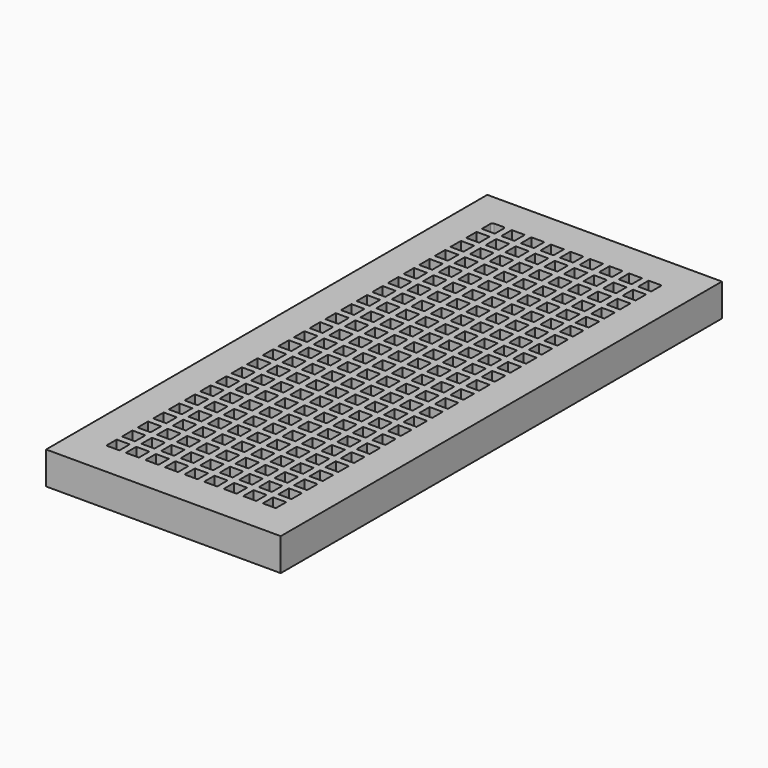
from build123d import *

# Parameters (mm, degrees)
F0_W     = 180
F0_H     = 423
F0_W_2   = 10
F0_H_2   = 10
F1_DEPTH = 25
F2_DEPTH = 25


with BuildPart() as f1:
    # F0 (on Top) → F1 (new body)
    with BuildSketch(Plane.XY):
        with Locations((-90, 211.5)):
            Rectangle(F0_W, F0_H)
        with Locations((-150, 31.5)):
            Rectangle(F0_W_2, F0_H_2, mode=Mode.SUBTRACT)
        with Locations((-150, 46.5)):
            Rectangle(F0_W_2, F0_H_2, mode=Mode.SUBTRACT)
        with Locations((-150, 61.5)):
            Rectangle(F0_W_2, F0_H_2, mode=Mode.SUBTRACT)
        with Locations((-150, 76.5)):
            Rectangle(F0_W_2, F0_H_2, mode=Mode.SUBTRACT)
        with Locations((-150, 91.5)):
            Rectangle(F0_W_2, F0_H_2, mode=Mode.SUBTRACT)
        with Locations((-135, 31.5)):
            Rectangle(F0_W_2, F0_H_2, mode=Mode.SUBTRACT)
        with Locations((-135, 46.5)):
            Rectangle(F0_W_2, F0_H_2, mode=Mode.SUBTRACT)
        with Locations((-120, 31.5)):
            Rectangle(F0_W_2, F0_H_2, mode=Mode.SUBTRACT)
        with Locations((-120, 46.5)):
            Rectangle(F0_W_2, F0_H_2, mode=Mode.SUBTRACT)
        with Locations((-105, 31.5)):
            Rectangle(F0_W_2, F0_H_2, mode=Mode.SUBTRACT)
        with Locations((-105, 46.5)):
            Rectangle(F0_W_2, F0_H_2, mode=Mode.SUBTRACT)
        with Locations((-135, 61.5)):
            Rectangle(F0_W_2, F0_H_2, mode=Mode.SUBTRACT)
        with Locations((-135, 76.5)):
            Rectangle(F0_W_2, F0_H_2, mode=Mode.SUBTRACT)
        with Locations((-120, 61.5)):
            Rectangle(F0_W_2, F0_H_2, mode=Mode.SUBTRACT)
        with Locations((-120, 76.5)):
            Rectangle(F0_W_2, F0_H_2, mode=Mode.SUBTRACT)
        with Locations((-135, 91.5)):
            Rectangle(F0_W_2, F0_H_2, mode=Mode.SUBTRACT)
        with Locations((-120, 91.5)):
            Rectangle(F0_W_2, F0_H_2, mode=Mode.SUBTRACT)
        with Locations((-105, 61.5)):
            Rectangle(F0_W_2, F0_H_2, mode=Mode.SUBTRACT)
        with Locations((-105, 76.5)):
            Rectangle(F0_W_2, F0_H_2, mode=Mode.SUBTRACT)
        with Locations((-105, 91.5)):
            Rectangle(F0_W_2, F0_H_2, mode=Mode.SUBTRACT)
        with Locations((-150, 106.5)):
            Rectangle(F0_W_2, F0_H_2, mode=Mode.SUBTRACT)
        with Locations((-150, 121.5)):
            Rectangle(F0_W_2, F0_H_2, mode=Mode.SUBTRACT)
        with Locations((-150, 136.5)):
            Rectangle(F0_W_2, F0_H_2, mode=Mode.SUBTRACT)
        with Locations((-150, 151.5)):
            Rectangle(F0_W_2, F0_H_2, mode=Mode.SUBTRACT)
        with Locations((-150, 166.5)):
            Rectangle(F0_W_2, F0_H_2, mode=Mode.SUBTRACT)
        with Locations((-150, 181.5)):
            Rectangle(F0_W_2, F0_H_2, mode=Mode.SUBTRACT)
        with Locations((-150, 196.5)):
            Rectangle(F0_W_2, F0_H_2, mode=Mode.SUBTRACT)
        with Locations((-135, 106.5)):
            Rectangle(F0_W_2, F0_H_2, mode=Mode.SUBTRACT)
        with Locations((-135, 121.5)):
            Rectangle(F0_W_2, F0_H_2, mode=Mode.SUBTRACT)
        with Locations((-120, 106.5)):
            Rectangle(F0_W_2, F0_H_2, mode=Mode.SUBTRACT)
        with Locations((-120, 121.5)):
            Rectangle(F0_W_2, F0_H_2, mode=Mode.SUBTRACT)
        with Locations((-135, 136.5)):
            Rectangle(F0_W_2, F0_H_2, mode=Mode.SUBTRACT)
        with Locations((-135, 151.5)):
            Rectangle(F0_W_2, F0_H_2, mode=Mode.SUBTRACT)
        with Locations((-120, 136.5)):
            Rectangle(F0_W_2, F0_H_2, mode=Mode.SUBTRACT)
        with Locations((-120, 151.5)):
            Rectangle(F0_W_2, F0_H_2, mode=Mode.SUBTRACT)
        with Locations((-105, 106.5)):
            Rectangle(F0_W_2, F0_H_2, mode=Mode.SUBTRACT)
        with Locations((-105, 121.5)):
            Rectangle(F0_W_2, F0_H_2, mode=Mode.SUBTRACT)
        with Locations((-105, 136.5)):
            Rectangle(F0_W_2, F0_H_2, mode=Mode.SUBTRACT)
        with Locations((-105, 151.5)):
            Rectangle(F0_W_2, F0_H_2, mode=Mode.SUBTRACT)
        with Locations((-135, 166.5)):
            Rectangle(F0_W_2, F0_H_2, mode=Mode.SUBTRACT)
        with Locations((-135, 181.5)):
            Rectangle(F0_W_2, F0_H_2, mode=Mode.SUBTRACT)
        with Locations((-120, 166.5)):
            Rectangle(F0_W_2, F0_H_2, mode=Mode.SUBTRACT)
        with Locations((-120, 181.5)):
            Rectangle(F0_W_2, F0_H_2, mode=Mode.SUBTRACT)
        with Locations((-135, 196.5)):
            Rectangle(F0_W_2, F0_H_2, mode=Mode.SUBTRACT)
        with Locations((-120, 196.5)):
            Rectangle(F0_W_2, F0_H_2, mode=Mode.SUBTRACT)
        with Locations((-105, 166.5)):
            Rectangle(F0_W_2, F0_H_2, mode=Mode.SUBTRACT)
        with Locations((-105, 181.5)):
            Rectangle(F0_W_2, F0_H_2, mode=Mode.SUBTRACT)
        with Locations((-105, 196.5)):
            Rectangle(F0_W_2, F0_H_2, mode=Mode.SUBTRACT)
        with Locations((-90, 31.5)):
            Rectangle(F0_W_2, F0_H_2, mode=Mode.SUBTRACT)
        with Locations((-90, 46.5)):
            Rectangle(F0_W_2, F0_H_2, mode=Mode.SUBTRACT)
        with Locations((-75, 31.5)):
            Rectangle(F0_W_2, F0_H_2, mode=Mode.SUBTRACT)
        with Locations((-75, 46.5)):
            Rectangle(F0_W_2, F0_H_2, mode=Mode.SUBTRACT)
        with Locations((-60, 31.5)):
            Rectangle(F0_W_2, F0_H_2, mode=Mode.SUBTRACT)
        with Locations((-60, 46.5)):
            Rectangle(F0_W_2, F0_H_2, mode=Mode.SUBTRACT)
        with Locations((-90, 61.5)):
            Rectangle(F0_W_2, F0_H_2, mode=Mode.SUBTRACT)
        with Locations((-90, 76.5)):
            Rectangle(F0_W_2, F0_H_2, mode=Mode.SUBTRACT)
        with Locations((-75, 61.5)):
            Rectangle(F0_W_2, F0_H_2, mode=Mode.SUBTRACT)
        with Locations((-75, 76.5)):
            Rectangle(F0_W_2, F0_H_2, mode=Mode.SUBTRACT)
        with Locations((-90, 91.5)):
            Rectangle(F0_W_2, F0_H_2, mode=Mode.SUBTRACT)
        with Locations((-75, 91.5)):
            Rectangle(F0_W_2, F0_H_2, mode=Mode.SUBTRACT)
        with Locations((-60, 61.5)):
            Rectangle(F0_W_2, F0_H_2, mode=Mode.SUBTRACT)
        with Locations((-60, 76.5)):
            Rectangle(F0_W_2, F0_H_2, mode=Mode.SUBTRACT)
        with Locations((-60, 91.5)):
            Rectangle(F0_W_2, F0_H_2, mode=Mode.SUBTRACT)
        with Locations((-45, 31.5)):
            Rectangle(F0_W_2, F0_H_2, mode=Mode.SUBTRACT)
        with Locations((-45, 46.5)):
            Rectangle(F0_W_2, F0_H_2, mode=Mode.SUBTRACT)
        with Locations((-30, 31.5)):
            Rectangle(F0_W_2, F0_H_2, mode=Mode.SUBTRACT)
        with Locations((-30, 46.5)):
            Rectangle(F0_W_2, F0_H_2, mode=Mode.SUBTRACT)
        with Locations((-45, 61.5)):
            Rectangle(F0_W_2, F0_H_2, mode=Mode.SUBTRACT)
        with Locations((-45, 76.5)):
            Rectangle(F0_W_2, F0_H_2, mode=Mode.SUBTRACT)
        with Locations((-30, 61.5)):
            Rectangle(F0_W_2, F0_H_2, mode=Mode.SUBTRACT)
        with Locations((-30, 76.5)):
            Rectangle(F0_W_2, F0_H_2, mode=Mode.SUBTRACT)
        with Locations((-45, 91.5)):
            Rectangle(F0_W_2, F0_H_2, mode=Mode.SUBTRACT)
        with Locations((-30, 91.5)):
            Rectangle(F0_W_2, F0_H_2, mode=Mode.SUBTRACT)
        with Locations((-90, 106.5)):
            Rectangle(F0_W_2, F0_H_2, mode=Mode.SUBTRACT)
        with Locations((-90, 121.5)):
            Rectangle(F0_W_2, F0_H_2, mode=Mode.SUBTRACT)
        with Locations((-75, 106.5)):
            Rectangle(F0_W_2, F0_H_2, mode=Mode.SUBTRACT)
        with Locations((-75, 121.5)):
            Rectangle(F0_W_2, F0_H_2, mode=Mode.SUBTRACT)
        with Locations((-90, 136.5)):
            Rectangle(F0_W_2, F0_H_2, mode=Mode.SUBTRACT)
        with Locations((-90, 151.5)):
            Rectangle(F0_W_2, F0_H_2, mode=Mode.SUBTRACT)
        with Locations((-75, 136.5)):
            Rectangle(F0_W_2, F0_H_2, mode=Mode.SUBTRACT)
        with Locations((-75, 151.5)):
            Rectangle(F0_W_2, F0_H_2, mode=Mode.SUBTRACT)
        with Locations((-60, 106.5)):
            Rectangle(F0_W_2, F0_H_2, mode=Mode.SUBTRACT)
        with Locations((-60, 121.5)):
            Rectangle(F0_W_2, F0_H_2, mode=Mode.SUBTRACT)
        with Locations((-60, 136.5)):
            Rectangle(F0_W_2, F0_H_2, mode=Mode.SUBTRACT)
        with Locations((-60, 151.5)):
            Rectangle(F0_W_2, F0_H_2, mode=Mode.SUBTRACT)
        with Locations((-90, 166.5)):
            Rectangle(F0_W_2, F0_H_2, mode=Mode.SUBTRACT)
        with Locations((-90, 181.5)):
            Rectangle(F0_W_2, F0_H_2, mode=Mode.SUBTRACT)
        with Locations((-75, 166.5)):
            Rectangle(F0_W_2, F0_H_2, mode=Mode.SUBTRACT)
        with Locations((-75, 181.5)):
            Rectangle(F0_W_2, F0_H_2, mode=Mode.SUBTRACT)
        with Locations((-90, 196.5)):
            Rectangle(F0_W_2, F0_H_2, mode=Mode.SUBTRACT)
        with Locations((-75, 196.5)):
            Rectangle(F0_W_2, F0_H_2, mode=Mode.SUBTRACT)
        with Locations((-60, 166.5)):
            Rectangle(F0_W_2, F0_H_2, mode=Mode.SUBTRACT)
        with Locations((-60, 181.5)):
            Rectangle(F0_W_2, F0_H_2, mode=Mode.SUBTRACT)
        with Locations((-60, 196.5)):
            Rectangle(F0_W_2, F0_H_2, mode=Mode.SUBTRACT)
        with Locations((-45, 106.5)):
            Rectangle(F0_W_2, F0_H_2, mode=Mode.SUBTRACT)
        with Locations((-45, 121.5)):
            Rectangle(F0_W_2, F0_H_2, mode=Mode.SUBTRACT)
        with Locations((-30, 106.5)):
            Rectangle(F0_W_2, F0_H_2, mode=Mode.SUBTRACT)
        with Locations((-30, 121.5)):
            Rectangle(F0_W_2, F0_H_2, mode=Mode.SUBTRACT)
        with Locations((-45, 136.5)):
            Rectangle(F0_W_2, F0_H_2, mode=Mode.SUBTRACT)
        with Locations((-45, 151.5)):
            Rectangle(F0_W_2, F0_H_2, mode=Mode.SUBTRACT)
        with Locations((-30, 136.5)):
            Rectangle(F0_W_2, F0_H_2, mode=Mode.SUBTRACT)
        with Locations((-30, 151.5)):
            Rectangle(F0_W_2, F0_H_2, mode=Mode.SUBTRACT)
        with Locations((-45, 166.5)):
            Rectangle(F0_W_2, F0_H_2, mode=Mode.SUBTRACT)
        with Locations((-45, 181.5)):
            Rectangle(F0_W_2, F0_H_2, mode=Mode.SUBTRACT)
        with Locations((-30, 166.5)):
            Rectangle(F0_W_2, F0_H_2, mode=Mode.SUBTRACT)
        with Locations((-30, 181.5)):
            Rectangle(F0_W_2, F0_H_2, mode=Mode.SUBTRACT)
        with Locations((-45, 196.5)):
            Rectangle(F0_W_2, F0_H_2, mode=Mode.SUBTRACT)
        with Locations((-30, 196.5)):
            Rectangle(F0_W_2, F0_H_2, mode=Mode.SUBTRACT)
        with Locations((-150, 211.5)):
            Rectangle(F0_W_2, F0_H_2, mode=Mode.SUBTRACT)
        with Locations((-150, 226.5)):
            Rectangle(F0_W_2, F0_H_2, mode=Mode.SUBTRACT)
        with Locations((-150, 241.5)):
            Rectangle(F0_W_2, F0_H_2, mode=Mode.SUBTRACT)
        with Locations((-150, 256.5)):
            Rectangle(F0_W_2, F0_H_2, mode=Mode.SUBTRACT)
        with Locations((-150, 271.5)):
            Rectangle(F0_W_2, F0_H_2, mode=Mode.SUBTRACT)
        with Locations((-150, 286.5)):
            Rectangle(F0_W_2, F0_H_2, mode=Mode.SUBTRACT)
        with Locations((-150, 301.5)):
            Rectangle(F0_W_2, F0_H_2, mode=Mode.SUBTRACT)
        with Locations((-150, 316.5)):
            Rectangle(F0_W_2, F0_H_2, mode=Mode.SUBTRACT)
        with Locations((-135, 211.5)):
            Rectangle(F0_W_2, F0_H_2, mode=Mode.SUBTRACT)
        with Locations((-135, 226.5)):
            Rectangle(F0_W_2, F0_H_2, mode=Mode.SUBTRACT)
        with Locations((-120, 211.5)):
            Rectangle(F0_W_2, F0_H_2, mode=Mode.SUBTRACT)
        with Locations((-120, 226.5)):
            Rectangle(F0_W_2, F0_H_2, mode=Mode.SUBTRACT)
        with Locations((-135, 241.5)):
            Rectangle(F0_W_2, F0_H_2, mode=Mode.SUBTRACT)
        with Locations((-135, 256.5)):
            Rectangle(F0_W_2, F0_H_2, mode=Mode.SUBTRACT)
        with Locations((-120, 241.5)):
            Rectangle(F0_W_2, F0_H_2, mode=Mode.SUBTRACT)
        with Locations((-120, 256.5)):
            Rectangle(F0_W_2, F0_H_2, mode=Mode.SUBTRACT)
        with Locations((-105, 211.5)):
            Rectangle(F0_W_2, F0_H_2, mode=Mode.SUBTRACT)
        with Locations((-105, 226.5)):
            Rectangle(F0_W_2, F0_H_2, mode=Mode.SUBTRACT)
        with Locations((-105, 241.5)):
            Rectangle(F0_W_2, F0_H_2, mode=Mode.SUBTRACT)
        with Locations((-105, 256.5)):
            Rectangle(F0_W_2, F0_H_2, mode=Mode.SUBTRACT)
        with Locations((-135, 271.5)):
            Rectangle(F0_W_2, F0_H_2, mode=Mode.SUBTRACT)
        with Locations((-135, 286.5)):
            Rectangle(F0_W_2, F0_H_2, mode=Mode.SUBTRACT)
        with Locations((-120, 271.5)):
            Rectangle(F0_W_2, F0_H_2, mode=Mode.SUBTRACT)
        with Locations((-120, 286.5)):
            Rectangle(F0_W_2, F0_H_2, mode=Mode.SUBTRACT)
        with Locations((-135, 301.5)):
            Rectangle(F0_W_2, F0_H_2, mode=Mode.SUBTRACT)
        with Locations((-135, 316.5)):
            Rectangle(F0_W_2, F0_H_2, mode=Mode.SUBTRACT)
        with Locations((-120, 301.5)):
            Rectangle(F0_W_2, F0_H_2, mode=Mode.SUBTRACT)
        with Locations((-120, 316.5)):
            Rectangle(F0_W_2, F0_H_2, mode=Mode.SUBTRACT)
        with Locations((-105, 271.5)):
            Rectangle(F0_W_2, F0_H_2, mode=Mode.SUBTRACT)
        with Locations((-105, 286.5)):
            Rectangle(F0_W_2, F0_H_2, mode=Mode.SUBTRACT)
        with Locations((-105, 301.5)):
            Rectangle(F0_W_2, F0_H_2, mode=Mode.SUBTRACT)
        with Locations((-105, 316.5)):
            Rectangle(F0_W_2, F0_H_2, mode=Mode.SUBTRACT)
        with Locations((-150, 331.5)):
            Rectangle(F0_W_2, F0_H_2, mode=Mode.SUBTRACT)
        with Locations((-150, 346.5)):
            Rectangle(F0_W_2, F0_H_2, mode=Mode.SUBTRACT)
        with Locations((-150, 361.5)):
            Rectangle(F0_W_2, F0_H_2, mode=Mode.SUBTRACT)
        with Locations((-150, 376.5)):
            Rectangle(F0_W_2, F0_H_2, mode=Mode.SUBTRACT)
        with BuildLine():
            ThreePointArc((-155, 395), (-154.56066, 396.06066), (-153.5, 396.5))
            Line((-153.5, 396.5), (-146.5, 396.5))
            ThreePointArc((-146.5, 396.5), (-145.43934, 396.06066), (-145, 395))
            Line((-145, 395), (-145, 386.5))
            Line((-145, 386.5), (-155, 386.5))
            Line((-155, 386.5), (-155, 395))
        make_face(mode=Mode.SUBTRACT)
        with Locations((-135, 331.5)):
            Rectangle(F0_W_2, F0_H_2, mode=Mode.SUBTRACT)
        with Locations((-120, 331.5)):
            Rectangle(F0_W_2, F0_H_2, mode=Mode.SUBTRACT)
        with Locations((-135, 346.5)):
            Rectangle(F0_W_2, F0_H_2, mode=Mode.SUBTRACT)
        with Locations((-135, 361.5)):
            Rectangle(F0_W_2, F0_H_2, mode=Mode.SUBTRACT)
        with Locations((-120, 346.5)):
            Rectangle(F0_W_2, F0_H_2, mode=Mode.SUBTRACT)
        with Locations((-120, 361.5)):
            Rectangle(F0_W_2, F0_H_2, mode=Mode.SUBTRACT)
        with Locations((-105, 331.5)):
            Rectangle(F0_W_2, F0_H_2, mode=Mode.SUBTRACT)
        with Locations((-105, 346.5)):
            Rectangle(F0_W_2, F0_H_2, mode=Mode.SUBTRACT)
        with Locations((-105, 361.5)):
            Rectangle(F0_W_2, F0_H_2, mode=Mode.SUBTRACT)
        with Locations((-135, 376.5)):
            Rectangle(F0_W_2, F0_H_2, mode=Mode.SUBTRACT)
        with Locations((-135, 391.5)):
            Rectangle(F0_W_2, F0_H_2, mode=Mode.SUBTRACT)
        with Locations((-120, 376.5)):
            Rectangle(F0_W_2, F0_H_2, mode=Mode.SUBTRACT)
        with Locations((-120, 391.5)):
            Rectangle(F0_W_2, F0_H_2, mode=Mode.SUBTRACT)
        with Locations((-105, 376.5)):
            Rectangle(F0_W_2, F0_H_2, mode=Mode.SUBTRACT)
        with Locations((-105, 391.5)):
            Rectangle(F0_W_2, F0_H_2, mode=Mode.SUBTRACT)
        with Locations((-90, 211.5)):
            Rectangle(F0_W_2, F0_H_2, mode=Mode.SUBTRACT)
        with Locations((-90, 226.5)):
            Rectangle(F0_W_2, F0_H_2, mode=Mode.SUBTRACT)
        with Locations((-75, 211.5)):
            Rectangle(F0_W_2, F0_H_2, mode=Mode.SUBTRACT)
        with Locations((-75, 226.5)):
            Rectangle(F0_W_2, F0_H_2, mode=Mode.SUBTRACT)
        with Locations((-90, 241.5)):
            Rectangle(F0_W_2, F0_H_2, mode=Mode.SUBTRACT)
        with Locations((-90, 256.5)):
            Rectangle(F0_W_2, F0_H_2, mode=Mode.SUBTRACT)
        with Locations((-75, 241.5)):
            Rectangle(F0_W_2, F0_H_2, mode=Mode.SUBTRACT)
        with Locations((-75, 256.5)):
            Rectangle(F0_W_2, F0_H_2, mode=Mode.SUBTRACT)
        with Locations((-60, 211.5)):
            Rectangle(F0_W_2, F0_H_2, mode=Mode.SUBTRACT)
        with Locations((-60, 226.5)):
            Rectangle(F0_W_2, F0_H_2, mode=Mode.SUBTRACT)
        with Locations((-60, 241.5)):
            Rectangle(F0_W_2, F0_H_2, mode=Mode.SUBTRACT)
        with Locations((-60, 256.5)):
            Rectangle(F0_W_2, F0_H_2, mode=Mode.SUBTRACT)
        with Locations((-90, 271.5)):
            Rectangle(F0_W_2, F0_H_2, mode=Mode.SUBTRACT)
        with Locations((-90, 286.5)):
            Rectangle(F0_W_2, F0_H_2, mode=Mode.SUBTRACT)
        with Locations((-75, 271.5)):
            Rectangle(F0_W_2, F0_H_2, mode=Mode.SUBTRACT)
        with Locations((-75, 286.5)):
            Rectangle(F0_W_2, F0_H_2, mode=Mode.SUBTRACT)
        with Locations((-90, 301.5)):
            Rectangle(F0_W_2, F0_H_2, mode=Mode.SUBTRACT)
        with Locations((-90, 316.5)):
            Rectangle(F0_W_2, F0_H_2, mode=Mode.SUBTRACT)
        with Locations((-75, 301.5)):
            Rectangle(F0_W_2, F0_H_2, mode=Mode.SUBTRACT)
        with Locations((-75, 316.5)):
            Rectangle(F0_W_2, F0_H_2, mode=Mode.SUBTRACT)
        with Locations((-60, 271.5)):
            Rectangle(F0_W_2, F0_H_2, mode=Mode.SUBTRACT)
        with Locations((-60, 286.5)):
            Rectangle(F0_W_2, F0_H_2, mode=Mode.SUBTRACT)
        with Locations((-60, 301.5)):
            Rectangle(F0_W_2, F0_H_2, mode=Mode.SUBTRACT)
        with Locations((-60, 316.5)):
            Rectangle(F0_W_2, F0_H_2, mode=Mode.SUBTRACT)
        with Locations((-45, 211.5)):
            Rectangle(F0_W_2, F0_H_2, mode=Mode.SUBTRACT)
        with Locations((-45, 226.5)):
            Rectangle(F0_W_2, F0_H_2, mode=Mode.SUBTRACT)
        with Locations((-30, 211.5)):
            Rectangle(F0_W_2, F0_H_2, mode=Mode.SUBTRACT)
        with Locations((-30, 226.5)):
            Rectangle(F0_W_2, F0_H_2, mode=Mode.SUBTRACT)
        with Locations((-45, 241.5)):
            Rectangle(F0_W_2, F0_H_2, mode=Mode.SUBTRACT)
        with Locations((-45, 256.5)):
            Rectangle(F0_W_2, F0_H_2, mode=Mode.SUBTRACT)
        with Locations((-30, 241.5)):
            Rectangle(F0_W_2, F0_H_2, mode=Mode.SUBTRACT)
        with Locations((-30, 256.5)):
            Rectangle(F0_W_2, F0_H_2, mode=Mode.SUBTRACT)
        with Locations((-45, 271.5)):
            Rectangle(F0_W_2, F0_H_2, mode=Mode.SUBTRACT)
        with Locations((-45, 286.5)):
            Rectangle(F0_W_2, F0_H_2, mode=Mode.SUBTRACT)
        with Locations((-30, 271.5)):
            Rectangle(F0_W_2, F0_H_2, mode=Mode.SUBTRACT)
        with Locations((-30, 286.5)):
            Rectangle(F0_W_2, F0_H_2, mode=Mode.SUBTRACT)
        with Locations((-45, 301.5)):
            Rectangle(F0_W_2, F0_H_2, mode=Mode.SUBTRACT)
        with Locations((-45, 316.5)):
            Rectangle(F0_W_2, F0_H_2, mode=Mode.SUBTRACT)
        with Locations((-30, 301.5)):
            Rectangle(F0_W_2, F0_H_2, mode=Mode.SUBTRACT)
        with Locations((-30, 316.5)):
            Rectangle(F0_W_2, F0_H_2, mode=Mode.SUBTRACT)
        with Locations((-90, 331.5)):
            Rectangle(F0_W_2, F0_H_2, mode=Mode.SUBTRACT)
        with Locations((-75, 331.5)):
            Rectangle(F0_W_2, F0_H_2, mode=Mode.SUBTRACT)
        with Locations((-90, 346.5)):
            Rectangle(F0_W_2, F0_H_2, mode=Mode.SUBTRACT)
        with Locations((-90, 361.5)):
            Rectangle(F0_W_2, F0_H_2, mode=Mode.SUBTRACT)
        with Locations((-75, 346.5)):
            Rectangle(F0_W_2, F0_H_2, mode=Mode.SUBTRACT)
        with Locations((-75, 361.5)):
            Rectangle(F0_W_2, F0_H_2, mode=Mode.SUBTRACT)
        with Locations((-60, 331.5)):
            Rectangle(F0_W_2, F0_H_2, mode=Mode.SUBTRACT)
        with Locations((-60, 346.5)):
            Rectangle(F0_W_2, F0_H_2, mode=Mode.SUBTRACT)
        with Locations((-60, 361.5)):
            Rectangle(F0_W_2, F0_H_2, mode=Mode.SUBTRACT)
        with Locations((-90, 376.5)):
            Rectangle(F0_W_2, F0_H_2, mode=Mode.SUBTRACT)
        with Locations((-90, 391.5)):
            Rectangle(F0_W_2, F0_H_2, mode=Mode.SUBTRACT)
        with Locations((-75, 376.5)):
            Rectangle(F0_W_2, F0_H_2, mode=Mode.SUBTRACT)
        with Locations((-75, 391.5)):
            Rectangle(F0_W_2, F0_H_2, mode=Mode.SUBTRACT)
        with Locations((-60, 376.5)):
            Rectangle(F0_W_2, F0_H_2, mode=Mode.SUBTRACT)
        with Locations((-60, 391.5)):
            Rectangle(F0_W_2, F0_H_2, mode=Mode.SUBTRACT)
        with Locations((-45, 331.5)):
            Rectangle(F0_W_2, F0_H_2, mode=Mode.SUBTRACT)
        with Locations((-30, 331.5)):
            Rectangle(F0_W_2, F0_H_2, mode=Mode.SUBTRACT)
        with Locations((-45, 346.5)):
            Rectangle(F0_W_2, F0_H_2, mode=Mode.SUBTRACT)
        with Locations((-45, 361.5)):
            Rectangle(F0_W_2, F0_H_2, mode=Mode.SUBTRACT)
        with Locations((-30, 346.5)):
            Rectangle(F0_W_2, F0_H_2, mode=Mode.SUBTRACT)
        with Locations((-30, 361.5)):
            Rectangle(F0_W_2, F0_H_2, mode=Mode.SUBTRACT)
        with Locations((-45, 376.5)):
            Rectangle(F0_W_2, F0_H_2, mode=Mode.SUBTRACT)
        with Locations((-45, 391.5)):
            Rectangle(F0_W_2, F0_H_2, mode=Mode.SUBTRACT)
        with Locations((-30, 376.5)):
            Rectangle(F0_W_2, F0_H_2, mode=Mode.SUBTRACT)
        with Locations((-30, 391.5)):
            Rectangle(F0_W_2, F0_H_2, mode=Mode.SUBTRACT)
    extrude(amount=F1_DEPTH)

    # F0 (on Top) → F2 (join)
    with BuildSketch(Plane.XY):
        with Locations((-90, 211.5)):
            Rectangle(F0_W, F0_H)
        with Locations((-150, 31.5)):
            Rectangle(F0_W_2, F0_H_2, mode=Mode.SUBTRACT)
        with Locations((-150, 46.5)):
            Rectangle(F0_W_2, F0_H_2, mode=Mode.SUBTRACT)
        with Locations((-150, 61.5)):
            Rectangle(F0_W_2, F0_H_2, mode=Mode.SUBTRACT)
        with Locations((-150, 76.5)):
            Rectangle(F0_W_2, F0_H_2, mode=Mode.SUBTRACT)
        with Locations((-150, 91.5)):
            Rectangle(F0_W_2, F0_H_2, mode=Mode.SUBTRACT)
        with Locations((-135, 31.5)):
            Rectangle(F0_W_2, F0_H_2, mode=Mode.SUBTRACT)
        with Locations((-135, 46.5)):
            Rectangle(F0_W_2, F0_H_2, mode=Mode.SUBTRACT)
        with Locations((-120, 31.5)):
            Rectangle(F0_W_2, F0_H_2, mode=Mode.SUBTRACT)
        with Locations((-120, 46.5)):
            Rectangle(F0_W_2, F0_H_2, mode=Mode.SUBTRACT)
        with Locations((-105, 31.5)):
            Rectangle(F0_W_2, F0_H_2, mode=Mode.SUBTRACT)
        with Locations((-105, 46.5)):
            Rectangle(F0_W_2, F0_H_2, mode=Mode.SUBTRACT)
        with Locations((-135, 61.5)):
            Rectangle(F0_W_2, F0_H_2, mode=Mode.SUBTRACT)
        with Locations((-135, 76.5)):
            Rectangle(F0_W_2, F0_H_2, mode=Mode.SUBTRACT)
        with Locations((-120, 61.5)):
            Rectangle(F0_W_2, F0_H_2, mode=Mode.SUBTRACT)
        with Locations((-120, 76.5)):
            Rectangle(F0_W_2, F0_H_2, mode=Mode.SUBTRACT)
        with Locations((-135, 91.5)):
            Rectangle(F0_W_2, F0_H_2, mode=Mode.SUBTRACT)
        with Locations((-120, 91.5)):
            Rectangle(F0_W_2, F0_H_2, mode=Mode.SUBTRACT)
        with Locations((-105, 61.5)):
            Rectangle(F0_W_2, F0_H_2, mode=Mode.SUBTRACT)
        with Locations((-105, 76.5)):
            Rectangle(F0_W_2, F0_H_2, mode=Mode.SUBTRACT)
        with Locations((-105, 91.5)):
            Rectangle(F0_W_2, F0_H_2, mode=Mode.SUBTRACT)
        with Locations((-150, 106.5)):
            Rectangle(F0_W_2, F0_H_2, mode=Mode.SUBTRACT)
        with Locations((-150, 121.5)):
            Rectangle(F0_W_2, F0_H_2, mode=Mode.SUBTRACT)
        with Locations((-150, 136.5)):
            Rectangle(F0_W_2, F0_H_2, mode=Mode.SUBTRACT)
        with Locations((-150, 151.5)):
            Rectangle(F0_W_2, F0_H_2, mode=Mode.SUBTRACT)
        with Locations((-150, 166.5)):
            Rectangle(F0_W_2, F0_H_2, mode=Mode.SUBTRACT)
        with Locations((-150, 181.5)):
            Rectangle(F0_W_2, F0_H_2, mode=Mode.SUBTRACT)
        with Locations((-150, 196.5)):
            Rectangle(F0_W_2, F0_H_2, mode=Mode.SUBTRACT)
        with Locations((-135, 106.5)):
            Rectangle(F0_W_2, F0_H_2, mode=Mode.SUBTRACT)
        with Locations((-135, 121.5)):
            Rectangle(F0_W_2, F0_H_2, mode=Mode.SUBTRACT)
        with Locations((-120, 106.5)):
            Rectangle(F0_W_2, F0_H_2, mode=Mode.SUBTRACT)
        with Locations((-120, 121.5)):
            Rectangle(F0_W_2, F0_H_2, mode=Mode.SUBTRACT)
        with Locations((-135, 136.5)):
            Rectangle(F0_W_2, F0_H_2, mode=Mode.SUBTRACT)
        with Locations((-135, 151.5)):
            Rectangle(F0_W_2, F0_H_2, mode=Mode.SUBTRACT)
        with Locations((-120, 136.5)):
            Rectangle(F0_W_2, F0_H_2, mode=Mode.SUBTRACT)
        with Locations((-120, 151.5)):
            Rectangle(F0_W_2, F0_H_2, mode=Mode.SUBTRACT)
        with Locations((-105, 106.5)):
            Rectangle(F0_W_2, F0_H_2, mode=Mode.SUBTRACT)
        with Locations((-105, 121.5)):
            Rectangle(F0_W_2, F0_H_2, mode=Mode.SUBTRACT)
        with Locations((-105, 136.5)):
            Rectangle(F0_W_2, F0_H_2, mode=Mode.SUBTRACT)
        with Locations((-105, 151.5)):
            Rectangle(F0_W_2, F0_H_2, mode=Mode.SUBTRACT)
        with Locations((-135, 166.5)):
            Rectangle(F0_W_2, F0_H_2, mode=Mode.SUBTRACT)
        with Locations((-135, 181.5)):
            Rectangle(F0_W_2, F0_H_2, mode=Mode.SUBTRACT)
        with Locations((-120, 166.5)):
            Rectangle(F0_W_2, F0_H_2, mode=Mode.SUBTRACT)
        with Locations((-120, 181.5)):
            Rectangle(F0_W_2, F0_H_2, mode=Mode.SUBTRACT)
        with Locations((-135, 196.5)):
            Rectangle(F0_W_2, F0_H_2, mode=Mode.SUBTRACT)
        with Locations((-120, 196.5)):
            Rectangle(F0_W_2, F0_H_2, mode=Mode.SUBTRACT)
        with Locations((-105, 166.5)):
            Rectangle(F0_W_2, F0_H_2, mode=Mode.SUBTRACT)
        with Locations((-105, 181.5)):
            Rectangle(F0_W_2, F0_H_2, mode=Mode.SUBTRACT)
        with Locations((-105, 196.5)):
            Rectangle(F0_W_2, F0_H_2, mode=Mode.SUBTRACT)
        with Locations((-90, 31.5)):
            Rectangle(F0_W_2, F0_H_2, mode=Mode.SUBTRACT)
        with Locations((-90, 46.5)):
            Rectangle(F0_W_2, F0_H_2, mode=Mode.SUBTRACT)
        with Locations((-75, 31.5)):
            Rectangle(F0_W_2, F0_H_2, mode=Mode.SUBTRACT)
        with Locations((-75, 46.5)):
            Rectangle(F0_W_2, F0_H_2, mode=Mode.SUBTRACT)
        with Locations((-60, 31.5)):
            Rectangle(F0_W_2, F0_H_2, mode=Mode.SUBTRACT)
        with Locations((-60, 46.5)):
            Rectangle(F0_W_2, F0_H_2, mode=Mode.SUBTRACT)
        with Locations((-90, 61.5)):
            Rectangle(F0_W_2, F0_H_2, mode=Mode.SUBTRACT)
        with Locations((-90, 76.5)):
            Rectangle(F0_W_2, F0_H_2, mode=Mode.SUBTRACT)
        with Locations((-75, 61.5)):
            Rectangle(F0_W_2, F0_H_2, mode=Mode.SUBTRACT)
        with Locations((-75, 76.5)):
            Rectangle(F0_W_2, F0_H_2, mode=Mode.SUBTRACT)
        with Locations((-90, 91.5)):
            Rectangle(F0_W_2, F0_H_2, mode=Mode.SUBTRACT)
        with Locations((-75, 91.5)):
            Rectangle(F0_W_2, F0_H_2, mode=Mode.SUBTRACT)
        with Locations((-60, 61.5)):
            Rectangle(F0_W_2, F0_H_2, mode=Mode.SUBTRACT)
        with Locations((-60, 76.5)):
            Rectangle(F0_W_2, F0_H_2, mode=Mode.SUBTRACT)
        with Locations((-60, 91.5)):
            Rectangle(F0_W_2, F0_H_2, mode=Mode.SUBTRACT)
        with Locations((-45, 31.5)):
            Rectangle(F0_W_2, F0_H_2, mode=Mode.SUBTRACT)
        with Locations((-45, 46.5)):
            Rectangle(F0_W_2, F0_H_2, mode=Mode.SUBTRACT)
        with Locations((-30, 31.5)):
            Rectangle(F0_W_2, F0_H_2, mode=Mode.SUBTRACT)
        with Locations((-30, 46.5)):
            Rectangle(F0_W_2, F0_H_2, mode=Mode.SUBTRACT)
        with Locations((-45, 61.5)):
            Rectangle(F0_W_2, F0_H_2, mode=Mode.SUBTRACT)
        with Locations((-45, 76.5)):
            Rectangle(F0_W_2, F0_H_2, mode=Mode.SUBTRACT)
        with Locations((-30, 61.5)):
            Rectangle(F0_W_2, F0_H_2, mode=Mode.SUBTRACT)
        with Locations((-30, 76.5)):
            Rectangle(F0_W_2, F0_H_2, mode=Mode.SUBTRACT)
        with Locations((-45, 91.5)):
            Rectangle(F0_W_2, F0_H_2, mode=Mode.SUBTRACT)
        with Locations((-30, 91.5)):
            Rectangle(F0_W_2, F0_H_2, mode=Mode.SUBTRACT)
        with Locations((-90, 106.5)):
            Rectangle(F0_W_2, F0_H_2, mode=Mode.SUBTRACT)
        with Locations((-90, 121.5)):
            Rectangle(F0_W_2, F0_H_2, mode=Mode.SUBTRACT)
        with Locations((-75, 106.5)):
            Rectangle(F0_W_2, F0_H_2, mode=Mode.SUBTRACT)
        with Locations((-75, 121.5)):
            Rectangle(F0_W_2, F0_H_2, mode=Mode.SUBTRACT)
        with Locations((-90, 136.5)):
            Rectangle(F0_W_2, F0_H_2, mode=Mode.SUBTRACT)
        with Locations((-90, 151.5)):
            Rectangle(F0_W_2, F0_H_2, mode=Mode.SUBTRACT)
        with Locations((-75, 136.5)):
            Rectangle(F0_W_2, F0_H_2, mode=Mode.SUBTRACT)
        with Locations((-75, 151.5)):
            Rectangle(F0_W_2, F0_H_2, mode=Mode.SUBTRACT)
        with Locations((-60, 106.5)):
            Rectangle(F0_W_2, F0_H_2, mode=Mode.SUBTRACT)
        with Locations((-60, 121.5)):
            Rectangle(F0_W_2, F0_H_2, mode=Mode.SUBTRACT)
        with Locations((-60, 136.5)):
            Rectangle(F0_W_2, F0_H_2, mode=Mode.SUBTRACT)
        with Locations((-60, 151.5)):
            Rectangle(F0_W_2, F0_H_2, mode=Mode.SUBTRACT)
        with Locations((-90, 166.5)):
            Rectangle(F0_W_2, F0_H_2, mode=Mode.SUBTRACT)
        with Locations((-90, 181.5)):
            Rectangle(F0_W_2, F0_H_2, mode=Mode.SUBTRACT)
        with Locations((-75, 166.5)):
            Rectangle(F0_W_2, F0_H_2, mode=Mode.SUBTRACT)
        with Locations((-75, 181.5)):
            Rectangle(F0_W_2, F0_H_2, mode=Mode.SUBTRACT)
        with Locations((-90, 196.5)):
            Rectangle(F0_W_2, F0_H_2, mode=Mode.SUBTRACT)
        with Locations((-75, 196.5)):
            Rectangle(F0_W_2, F0_H_2, mode=Mode.SUBTRACT)
        with Locations((-60, 166.5)):
            Rectangle(F0_W_2, F0_H_2, mode=Mode.SUBTRACT)
        with Locations((-60, 181.5)):
            Rectangle(F0_W_2, F0_H_2, mode=Mode.SUBTRACT)
        with Locations((-60, 196.5)):
            Rectangle(F0_W_2, F0_H_2, mode=Mode.SUBTRACT)
        with Locations((-45, 106.5)):
            Rectangle(F0_W_2, F0_H_2, mode=Mode.SUBTRACT)
        with Locations((-45, 121.5)):
            Rectangle(F0_W_2, F0_H_2, mode=Mode.SUBTRACT)
        with Locations((-30, 106.5)):
            Rectangle(F0_W_2, F0_H_2, mode=Mode.SUBTRACT)
        with Locations((-30, 121.5)):
            Rectangle(F0_W_2, F0_H_2, mode=Mode.SUBTRACT)
        with Locations((-45, 136.5)):
            Rectangle(F0_W_2, F0_H_2, mode=Mode.SUBTRACT)
        with Locations((-45, 151.5)):
            Rectangle(F0_W_2, F0_H_2, mode=Mode.SUBTRACT)
        with Locations((-30, 136.5)):
            Rectangle(F0_W_2, F0_H_2, mode=Mode.SUBTRACT)
        with Locations((-30, 151.5)):
            Rectangle(F0_W_2, F0_H_2, mode=Mode.SUBTRACT)
        with Locations((-45, 166.5)):
            Rectangle(F0_W_2, F0_H_2, mode=Mode.SUBTRACT)
        with Locations((-45, 181.5)):
            Rectangle(F0_W_2, F0_H_2, mode=Mode.SUBTRACT)
        with Locations((-30, 166.5)):
            Rectangle(F0_W_2, F0_H_2, mode=Mode.SUBTRACT)
        with Locations((-30, 181.5)):
            Rectangle(F0_W_2, F0_H_2, mode=Mode.SUBTRACT)
        with Locations((-45, 196.5)):
            Rectangle(F0_W_2, F0_H_2, mode=Mode.SUBTRACT)
        with Locations((-30, 196.5)):
            Rectangle(F0_W_2, F0_H_2, mode=Mode.SUBTRACT)
        with Locations((-150, 211.5)):
            Rectangle(F0_W_2, F0_H_2, mode=Mode.SUBTRACT)
        with Locations((-150, 226.5)):
            Rectangle(F0_W_2, F0_H_2, mode=Mode.SUBTRACT)
        with Locations((-150, 241.5)):
            Rectangle(F0_W_2, F0_H_2, mode=Mode.SUBTRACT)
        with Locations((-150, 256.5)):
            Rectangle(F0_W_2, F0_H_2, mode=Mode.SUBTRACT)
        with Locations((-150, 271.5)):
            Rectangle(F0_W_2, F0_H_2, mode=Mode.SUBTRACT)
        with Locations((-150, 286.5)):
            Rectangle(F0_W_2, F0_H_2, mode=Mode.SUBTRACT)
        with Locations((-150, 301.5)):
            Rectangle(F0_W_2, F0_H_2, mode=Mode.SUBTRACT)
        with Locations((-150, 316.5)):
            Rectangle(F0_W_2, F0_H_2, mode=Mode.SUBTRACT)
        with Locations((-135, 211.5)):
            Rectangle(F0_W_2, F0_H_2, mode=Mode.SUBTRACT)
        with Locations((-135, 226.5)):
            Rectangle(F0_W_2, F0_H_2, mode=Mode.SUBTRACT)
        with Locations((-120, 211.5)):
            Rectangle(F0_W_2, F0_H_2, mode=Mode.SUBTRACT)
        with Locations((-120, 226.5)):
            Rectangle(F0_W_2, F0_H_2, mode=Mode.SUBTRACT)
        with Locations((-135, 241.5)):
            Rectangle(F0_W_2, F0_H_2, mode=Mode.SUBTRACT)
        with Locations((-135, 256.5)):
            Rectangle(F0_W_2, F0_H_2, mode=Mode.SUBTRACT)
        with Locations((-120, 241.5)):
            Rectangle(F0_W_2, F0_H_2, mode=Mode.SUBTRACT)
        with Locations((-120, 256.5)):
            Rectangle(F0_W_2, F0_H_2, mode=Mode.SUBTRACT)
        with Locations((-105, 211.5)):
            Rectangle(F0_W_2, F0_H_2, mode=Mode.SUBTRACT)
        with Locations((-105, 226.5)):
            Rectangle(F0_W_2, F0_H_2, mode=Mode.SUBTRACT)
        with Locations((-105, 241.5)):
            Rectangle(F0_W_2, F0_H_2, mode=Mode.SUBTRACT)
        with Locations((-105, 256.5)):
            Rectangle(F0_W_2, F0_H_2, mode=Mode.SUBTRACT)
        with Locations((-135, 271.5)):
            Rectangle(F0_W_2, F0_H_2, mode=Mode.SUBTRACT)
        with Locations((-135, 286.5)):
            Rectangle(F0_W_2, F0_H_2, mode=Mode.SUBTRACT)
        with Locations((-120, 271.5)):
            Rectangle(F0_W_2, F0_H_2, mode=Mode.SUBTRACT)
        with Locations((-120, 286.5)):
            Rectangle(F0_W_2, F0_H_2, mode=Mode.SUBTRACT)
        with Locations((-135, 301.5)):
            Rectangle(F0_W_2, F0_H_2, mode=Mode.SUBTRACT)
        with Locations((-135, 316.5)):
            Rectangle(F0_W_2, F0_H_2, mode=Mode.SUBTRACT)
        with Locations((-120, 301.5)):
            Rectangle(F0_W_2, F0_H_2, mode=Mode.SUBTRACT)
        with Locations((-120, 316.5)):
            Rectangle(F0_W_2, F0_H_2, mode=Mode.SUBTRACT)
        with Locations((-105, 271.5)):
            Rectangle(F0_W_2, F0_H_2, mode=Mode.SUBTRACT)
        with Locations((-105, 286.5)):
            Rectangle(F0_W_2, F0_H_2, mode=Mode.SUBTRACT)
        with Locations((-105, 301.5)):
            Rectangle(F0_W_2, F0_H_2, mode=Mode.SUBTRACT)
        with Locations((-105, 316.5)):
            Rectangle(F0_W_2, F0_H_2, mode=Mode.SUBTRACT)
        with Locations((-150, 331.5)):
            Rectangle(F0_W_2, F0_H_2, mode=Mode.SUBTRACT)
        with Locations((-150, 346.5)):
            Rectangle(F0_W_2, F0_H_2, mode=Mode.SUBTRACT)
        with Locations((-150, 361.5)):
            Rectangle(F0_W_2, F0_H_2, mode=Mode.SUBTRACT)
        with Locations((-150, 376.5)):
            Rectangle(F0_W_2, F0_H_2, mode=Mode.SUBTRACT)
        with BuildLine():
            ThreePointArc((-155, 395), (-154.56066, 396.06066), (-153.5, 396.5))
            Line((-153.5, 396.5), (-146.5, 396.5))
            ThreePointArc((-146.5, 396.5), (-145.43934, 396.06066), (-145, 395))
            Line((-145, 395), (-145, 386.5))
            Line((-145, 386.5), (-155, 386.5))
            Line((-155, 386.5), (-155, 395))
        make_face(mode=Mode.SUBTRACT)
        with Locations((-135, 331.5)):
            Rectangle(F0_W_2, F0_H_2, mode=Mode.SUBTRACT)
        with Locations((-120, 331.5)):
            Rectangle(F0_W_2, F0_H_2, mode=Mode.SUBTRACT)
        with Locations((-135, 346.5)):
            Rectangle(F0_W_2, F0_H_2, mode=Mode.SUBTRACT)
        with Locations((-135, 361.5)):
            Rectangle(F0_W_2, F0_H_2, mode=Mode.SUBTRACT)
        with Locations((-120, 346.5)):
            Rectangle(F0_W_2, F0_H_2, mode=Mode.SUBTRACT)
        with Locations((-120, 361.5)):
            Rectangle(F0_W_2, F0_H_2, mode=Mode.SUBTRACT)
        with Locations((-105, 331.5)):
            Rectangle(F0_W_2, F0_H_2, mode=Mode.SUBTRACT)
        with Locations((-105, 346.5)):
            Rectangle(F0_W_2, F0_H_2, mode=Mode.SUBTRACT)
        with Locations((-105, 361.5)):
            Rectangle(F0_W_2, F0_H_2, mode=Mode.SUBTRACT)
        with Locations((-135, 376.5)):
            Rectangle(F0_W_2, F0_H_2, mode=Mode.SUBTRACT)
        with Locations((-135, 391.5)):
            Rectangle(F0_W_2, F0_H_2, mode=Mode.SUBTRACT)
        with Locations((-120, 376.5)):
            Rectangle(F0_W_2, F0_H_2, mode=Mode.SUBTRACT)
        with Locations((-120, 391.5)):
            Rectangle(F0_W_2, F0_H_2, mode=Mode.SUBTRACT)
        with Locations((-105, 376.5)):
            Rectangle(F0_W_2, F0_H_2, mode=Mode.SUBTRACT)
        with Locations((-105, 391.5)):
            Rectangle(F0_W_2, F0_H_2, mode=Mode.SUBTRACT)
        with Locations((-90, 211.5)):
            Rectangle(F0_W_2, F0_H_2, mode=Mode.SUBTRACT)
        with Locations((-90, 226.5)):
            Rectangle(F0_W_2, F0_H_2, mode=Mode.SUBTRACT)
        with Locations((-75, 211.5)):
            Rectangle(F0_W_2, F0_H_2, mode=Mode.SUBTRACT)
        with Locations((-75, 226.5)):
            Rectangle(F0_W_2, F0_H_2, mode=Mode.SUBTRACT)
        with Locations((-90, 241.5)):
            Rectangle(F0_W_2, F0_H_2, mode=Mode.SUBTRACT)
        with Locations((-90, 256.5)):
            Rectangle(F0_W_2, F0_H_2, mode=Mode.SUBTRACT)
        with Locations((-75, 241.5)):
            Rectangle(F0_W_2, F0_H_2, mode=Mode.SUBTRACT)
        with Locations((-75, 256.5)):
            Rectangle(F0_W_2, F0_H_2, mode=Mode.SUBTRACT)
        with Locations((-60, 211.5)):
            Rectangle(F0_W_2, F0_H_2, mode=Mode.SUBTRACT)
        with Locations((-60, 226.5)):
            Rectangle(F0_W_2, F0_H_2, mode=Mode.SUBTRACT)
        with Locations((-60, 241.5)):
            Rectangle(F0_W_2, F0_H_2, mode=Mode.SUBTRACT)
        with Locations((-60, 256.5)):
            Rectangle(F0_W_2, F0_H_2, mode=Mode.SUBTRACT)
        with Locations((-90, 271.5)):
            Rectangle(F0_W_2, F0_H_2, mode=Mode.SUBTRACT)
        with Locations((-90, 286.5)):
            Rectangle(F0_W_2, F0_H_2, mode=Mode.SUBTRACT)
        with Locations((-75, 271.5)):
            Rectangle(F0_W_2, F0_H_2, mode=Mode.SUBTRACT)
        with Locations((-75, 286.5)):
            Rectangle(F0_W_2, F0_H_2, mode=Mode.SUBTRACT)
        with Locations((-90, 301.5)):
            Rectangle(F0_W_2, F0_H_2, mode=Mode.SUBTRACT)
        with Locations((-90, 316.5)):
            Rectangle(F0_W_2, F0_H_2, mode=Mode.SUBTRACT)
        with Locations((-75, 301.5)):
            Rectangle(F0_W_2, F0_H_2, mode=Mode.SUBTRACT)
        with Locations((-75, 316.5)):
            Rectangle(F0_W_2, F0_H_2, mode=Mode.SUBTRACT)
        with Locations((-60, 271.5)):
            Rectangle(F0_W_2, F0_H_2, mode=Mode.SUBTRACT)
        with Locations((-60, 286.5)):
            Rectangle(F0_W_2, F0_H_2, mode=Mode.SUBTRACT)
        with Locations((-60, 301.5)):
            Rectangle(F0_W_2, F0_H_2, mode=Mode.SUBTRACT)
        with Locations((-60, 316.5)):
            Rectangle(F0_W_2, F0_H_2, mode=Mode.SUBTRACT)
        with Locations((-45, 211.5)):
            Rectangle(F0_W_2, F0_H_2, mode=Mode.SUBTRACT)
        with Locations((-45, 226.5)):
            Rectangle(F0_W_2, F0_H_2, mode=Mode.SUBTRACT)
        with Locations((-30, 211.5)):
            Rectangle(F0_W_2, F0_H_2, mode=Mode.SUBTRACT)
        with Locations((-30, 226.5)):
            Rectangle(F0_W_2, F0_H_2, mode=Mode.SUBTRACT)
        with Locations((-45, 241.5)):
            Rectangle(F0_W_2, F0_H_2, mode=Mode.SUBTRACT)
        with Locations((-45, 256.5)):
            Rectangle(F0_W_2, F0_H_2, mode=Mode.SUBTRACT)
        with Locations((-30, 241.5)):
            Rectangle(F0_W_2, F0_H_2, mode=Mode.SUBTRACT)
        with Locations((-30, 256.5)):
            Rectangle(F0_W_2, F0_H_2, mode=Mode.SUBTRACT)
        with Locations((-45, 271.5)):
            Rectangle(F0_W_2, F0_H_2, mode=Mode.SUBTRACT)
        with Locations((-45, 286.5)):
            Rectangle(F0_W_2, F0_H_2, mode=Mode.SUBTRACT)
        with Locations((-30, 271.5)):
            Rectangle(F0_W_2, F0_H_2, mode=Mode.SUBTRACT)
        with Locations((-30, 286.5)):
            Rectangle(F0_W_2, F0_H_2, mode=Mode.SUBTRACT)
        with Locations((-45, 301.5)):
            Rectangle(F0_W_2, F0_H_2, mode=Mode.SUBTRACT)
        with Locations((-45, 316.5)):
            Rectangle(F0_W_2, F0_H_2, mode=Mode.SUBTRACT)
        with Locations((-30, 301.5)):
            Rectangle(F0_W_2, F0_H_2, mode=Mode.SUBTRACT)
        with Locations((-30, 316.5)):
            Rectangle(F0_W_2, F0_H_2, mode=Mode.SUBTRACT)
        with Locations((-90, 331.5)):
            Rectangle(F0_W_2, F0_H_2, mode=Mode.SUBTRACT)
        with Locations((-75, 331.5)):
            Rectangle(F0_W_2, F0_H_2, mode=Mode.SUBTRACT)
        with Locations((-90, 346.5)):
            Rectangle(F0_W_2, F0_H_2, mode=Mode.SUBTRACT)
        with Locations((-90, 361.5)):
            Rectangle(F0_W_2, F0_H_2, mode=Mode.SUBTRACT)
        with Locations((-75, 346.5)):
            Rectangle(F0_W_2, F0_H_2, mode=Mode.SUBTRACT)
        with Locations((-75, 361.5)):
            Rectangle(F0_W_2, F0_H_2, mode=Mode.SUBTRACT)
        with Locations((-60, 331.5)):
            Rectangle(F0_W_2, F0_H_2, mode=Mode.SUBTRACT)
        with Locations((-60, 346.5)):
            Rectangle(F0_W_2, F0_H_2, mode=Mode.SUBTRACT)
        with Locations((-60, 361.5)):
            Rectangle(F0_W_2, F0_H_2, mode=Mode.SUBTRACT)
        with Locations((-90, 376.5)):
            Rectangle(F0_W_2, F0_H_2, mode=Mode.SUBTRACT)
        with Locations((-90, 391.5)):
            Rectangle(F0_W_2, F0_H_2, mode=Mode.SUBTRACT)
        with Locations((-75, 376.5)):
            Rectangle(F0_W_2, F0_H_2, mode=Mode.SUBTRACT)
        with Locations((-75, 391.5)):
            Rectangle(F0_W_2, F0_H_2, mode=Mode.SUBTRACT)
        with Locations((-60, 376.5)):
            Rectangle(F0_W_2, F0_H_2, mode=Mode.SUBTRACT)
        with Locations((-60, 391.5)):
            Rectangle(F0_W_2, F0_H_2, mode=Mode.SUBTRACT)
        with Locations((-45, 331.5)):
            Rectangle(F0_W_2, F0_H_2, mode=Mode.SUBTRACT)
        with Locations((-30, 331.5)):
            Rectangle(F0_W_2, F0_H_2, mode=Mode.SUBTRACT)
        with Locations((-45, 346.5)):
            Rectangle(F0_W_2, F0_H_2, mode=Mode.SUBTRACT)
        with Locations((-45, 361.5)):
            Rectangle(F0_W_2, F0_H_2, mode=Mode.SUBTRACT)
        with Locations((-30, 346.5)):
            Rectangle(F0_W_2, F0_H_2, mode=Mode.SUBTRACT)
        with Locations((-30, 361.5)):
            Rectangle(F0_W_2, F0_H_2, mode=Mode.SUBTRACT)
        with Locations((-45, 376.5)):
            Rectangle(F0_W_2, F0_H_2, mode=Mode.SUBTRACT)
        with Locations((-45, 391.5)):
            Rectangle(F0_W_2, F0_H_2, mode=Mode.SUBTRACT)
        with Locations((-30, 376.5)):
            Rectangle(F0_W_2, F0_H_2, mode=Mode.SUBTRACT)
        with Locations((-30, 391.5)):
            Rectangle(F0_W_2, F0_H_2, mode=Mode.SUBTRACT)
    extrude(amount=F2_DEPTH)


solid = f1.part
